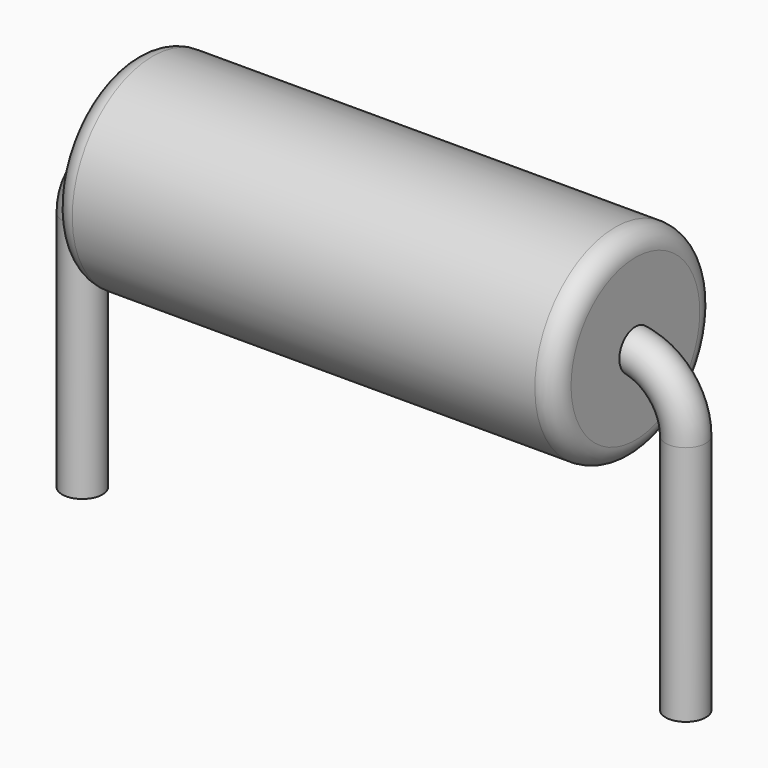
from build123d import *

# Parameters (mm, degrees)
F0_W = 6.35
F0_H = 1.27
F2_R = 0.254
F5_R = 0.254


with BuildPart() as f1:
    # F0 (on Front) → F1 (revolve)
    with BuildSketch(Plane.XZ):
        with Locations((0, 0.635)):
            Rectangle(F0_W, F0_H)
    revolve(axis=Axis((0, 0, 0), (1, 0, 0)))

    # F2
    f2_edges = [f1.edges().sort_by_distance(p)[0] for p in [
        (3.175, 0, -1.27),
        (-3.175, 0, -1.27),
    ]]
    fillet(f2_edges, radius=F2_R)

    # F6: sweep along a path in F3
    with BuildLine(Plane.XZ) as f6_path:
        Line((-3.81, -3.81), (-3.81, -0.762))
        ThreePointArc((-3.81, -0.762), (-3.5868153673, -0.2231846327), (-3.048, 0))
        Line((-3.048, 0), (3.048, 0))
        ThreePointArc((3.048, 0), (3.5868153673, -0.2231846327), (3.81, -0.762))
        Line((3.81, -0.762), (3.81, -3.81))
    # F5 (on offset) → F6 (sweep)
    with BuildSketch(Plane.XY.offset(-3.81)):
        with Locations((-3.81, 0)):
            Circle(F5_R)
    sweep(path=f6_path.line)


solid = f1.part
